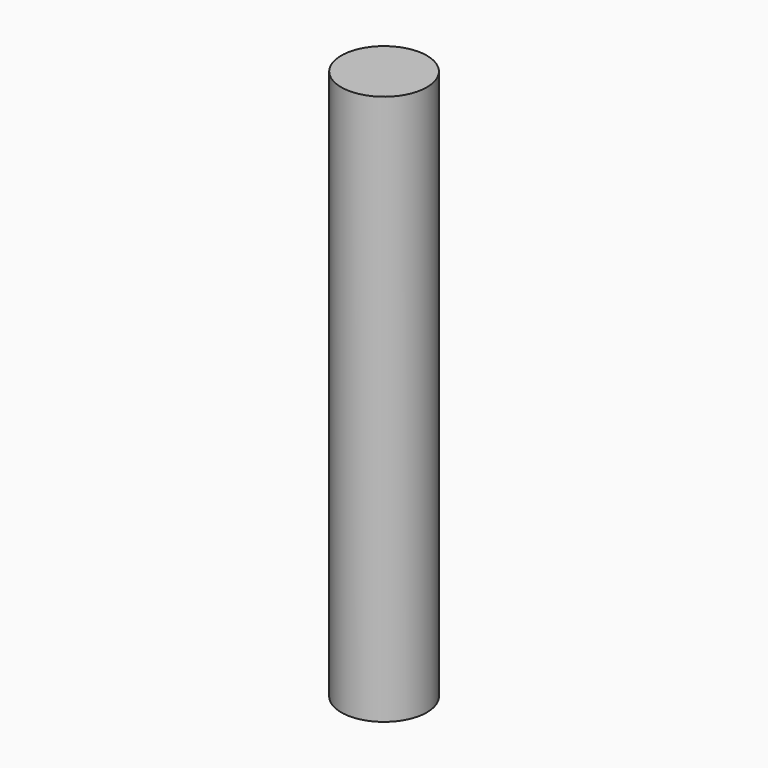
from build123d import *

# Parameters (mm, degrees)
CYLINDER_R     = 1.1684
CYLINDER_DEPTH = 15


with BuildPart() as part:
    # Cylinder → Cylinder (new body)
    with BuildSketch(Plane.XY.offset(-2.5)):
        Circle(CYLINDER_R)
    extrude(amount=CYLINDER_DEPTH)


solid = part.part
